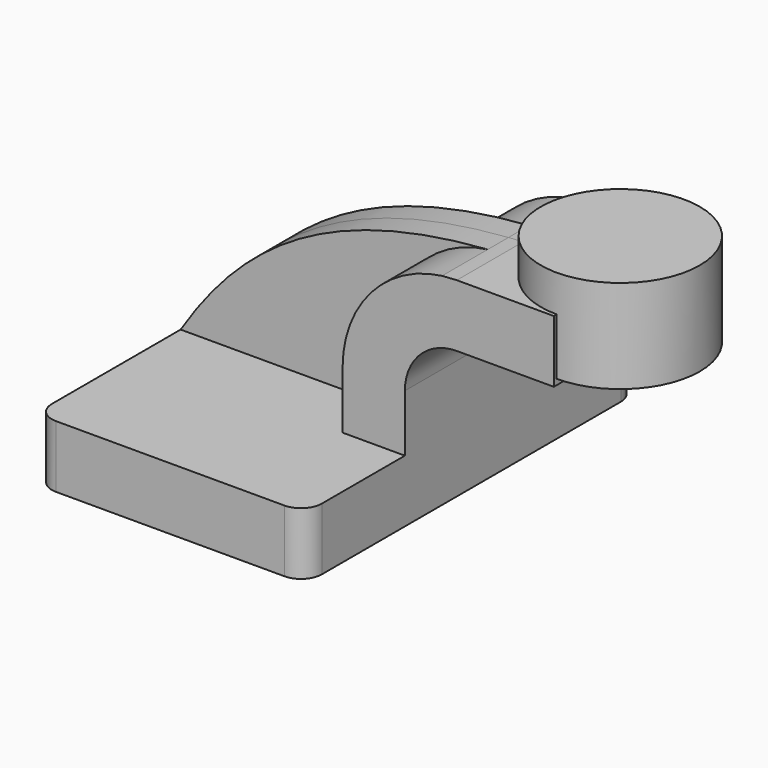
from build123d import *

# Parameters (mm, degrees)
F1_DEPTH = 63.5
F0_W     = 26.5017113779
F0_H     = 17.3551412069
F2_DEPTH = 25.4
F3_DEPTH = 7.9375
F5_R     = 6.35


with BuildPart() as f1:
    # F0 (on Front) → F1 (new body, symmetric)
    with BuildSketch(Plane.XZ):
        Polygon((-41.275, -9.525), (41.275, -9.525), (41.275, 9.525), (22.225, 9.525), (-41.275, 9.525), align=None)
    extrude(amount=F1_DEPTH, both=True)

    # F0 (on Front) → F2 (join, symmetric)
    with BuildSketch(Plane.XZ):
        with BuildLine():
            Line((22.225, 9.525), (41.275, 9.525))
            Line((41.275, 9.525), (41.275, 27.0002))
            ThreePointArc((41.275, 27.0002), (45.9246798487, 38.2255201513), (57.15, 42.8752))
            Line((57.15, 42.8752), (86.8267113779, 42.8752))
            Line((86.8267113779, 42.8752), (86.8267113779, 44.5700587931))
            Line((86.8267113779, 44.5700587931), (60.325, 44.5700587931))
            Line((60.325, 44.5700587931), (60.325, 61.9252))
            Line((60.325, 61.9252), (57.15, 61.9252))
            add(Edge.make_bspline(
                [(52.6432559299, 61.6332027992), (54.1237485825, 61.7442374051), (55.6258441188, 61.8416233146), (57.15, 61.9252)],
                knots=[108.3100725279, 108.3100725279, 108.3100725279, 108.3100725279, 111.5045361635, 111.5045361635, 111.5045361635, 111.5045361635], degree=3))
            ThreePointArc((52.6432559299, 61.6332027992), (30.9092524721, 50.0475164203), (22.225, 27.0002))
            Line((22.225, 27.0002), (22.225, 9.525))
        make_face()
        with Locations((73.5758556889, 53.2476293965)):
            Rectangle(F0_W, F0_H)
    extrude(amount=F2_DEPTH, both=True)

    # F0 (on Front) → F3 (join, symmetric)
    with BuildSketch(Plane.XZ):
        with BuildLine():
            add(Edge.make_bspline(
                [(-41.275, 9.525), (-22.9162119867, 38.413460075), (2.4463262192, 57.8685125131), (52.6432559299, 61.6332027992)],
                knots=[0, 0, 0, 0, 108.3100725279, 108.3100725279, 108.3100725279, 108.3100725279], degree=3))
            Line((-41.275, 9.525), (22.225, 9.525))
            Line((22.225, 9.525), (22.225, 27.0002))
            ThreePointArc((22.225, 27.0002), (30.9092524721, 50.0475164203), (52.6432559299, 61.6332027992))
        make_face()
    extrude(amount=F3_DEPTH, both=True)

    # F0 (on Front) → F4 (revolve)
    with BuildSketch(Plane.XZ):
        Polygon((86.8267113779, 61.9252), (86.8267113779, 44.5700587931), (111.125, 44.5700587931), (111.125, 73.1450587931), (86.8267113779, 73.1450587931), align=None)
    revolve(axis=Axis((86.8267113779, 0, 58.0101293965), (0, 0, 1)))

    # F5
    f5_edges = [f1.edges().sort_by_distance(p)[0] for p in [
        (41.275, -63.5, 0),
        (-41.275, -63.5, 0),
        (41.275, 63.5, 0),
        (-41.275, 63.5, 0),
    ]]
    fillet(f5_edges, radius=F5_R)


solid = f1.part
